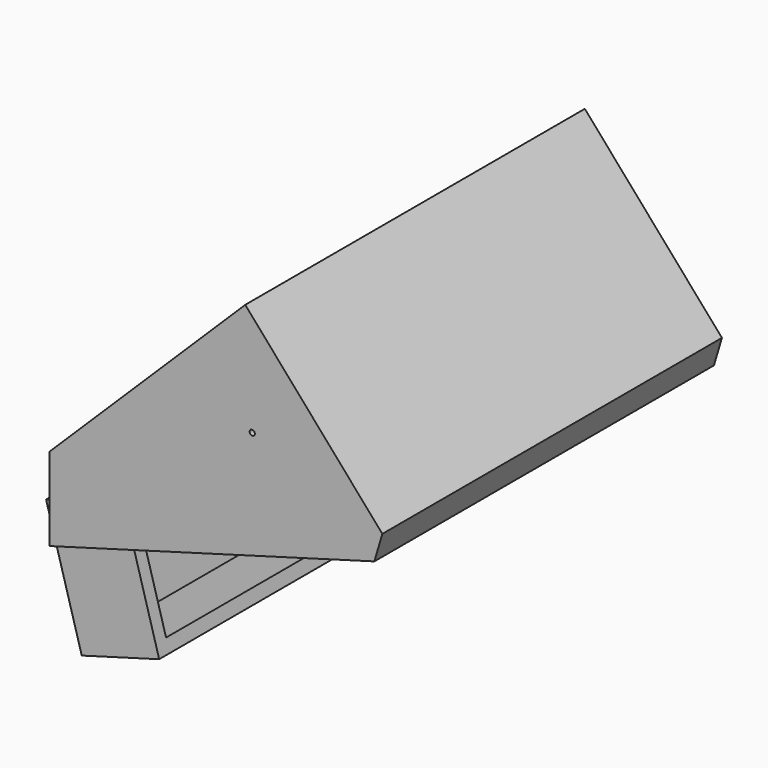
from build123d import *

# Parameters (mm, degrees)
F1_DEPTH = 81.1659097672
F2_SIZE  = 5
F5_D     = 1
F6_W     = 15.3886571198
F6_H     = 63.4207054973
F7_DEPTH = 25
F8_T     = -2.5
F8_2_T   = -2.5


with BuildPart() as f1:
    # F0 (on Front) → F1 (new body)
    with BuildSketch(Plane.XZ):
        Polygon((1.9457627166, 2.5642416462), (-35.5290919542, -34.3608616253), (-35.5290919542, -50.2307713032), (31.4452648163, -31.2410891056), align=None)
    extrude(amount=F1_DEPTH)

    # F2
    f2_edges = [f1.edges().sort_by_distance(p)[0] for p in [
        (31.445265, -40.582955, -31.241089),
    ]]
    chamfer(f2_edges, length=F2_SIZE)

    # F5 (through all)
    with Locations(Plane.XZ.offset(81.1659097672)):
        with Locations((3.2814415172, -18.5381937772)):
            Hole(F5_D / 2)

    # F8#2
    f8_2_openings = [f1.faces().sort_by_distance(p)[0] for p in [
        (-4.447102, -40.582955, -41.417889),
    ]]
    offset(amount=F8_2_T, openings=f8_2_openings)


with BuildPart() as f7:
    # F6 (on face) → F7 (new body)
    with BuildSketch(Plane(origin=(10.5387316866, 0, -37.1688566741), x_dir=(0.9620754157, 0, 0.2727836037), z_dir=(0.2727836037, 0, -0.9620754157))):
        with Locations((-55.5781252847, 31.7103527486)):
            Rectangle(F6_W, F6_H)
    extrude(amount=F7_DEPTH)

    # F8
    f8_openings = [f7.faces().sort_by_distance(p)[0] for p in [
        (-32.119297, -31.710353, -62.256714),
    ]]
    offset(amount=F8_T, openings=f8_openings)


solid = Compound([f1.part, f7.part])
